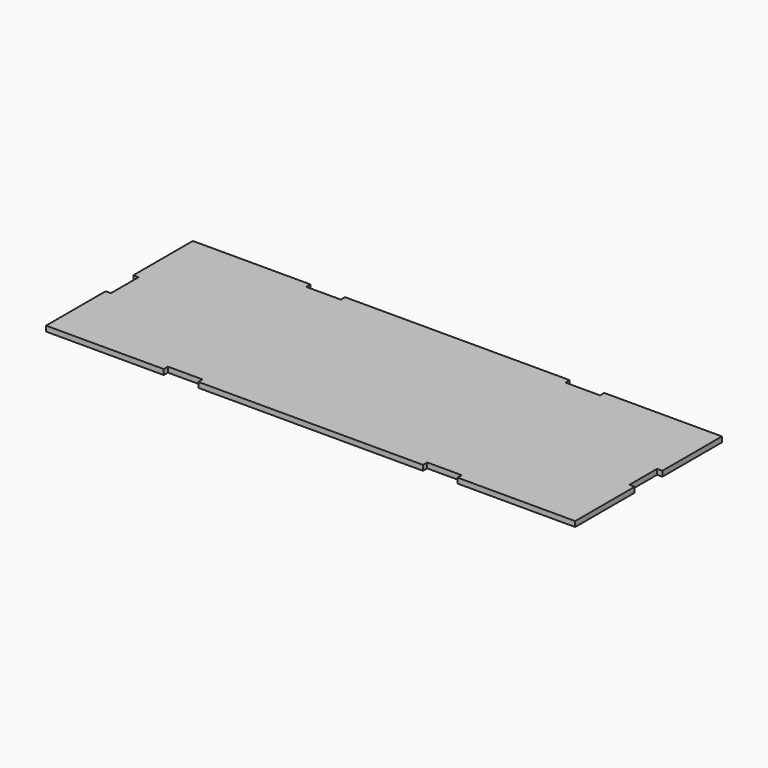
from build123d import *

# Parameters (mm, degrees)
F0_W     = 66.04
F0_H     = 3.1
F0_W_2   = 132.08
F1_DEPTH = 3.1


with BuildPart() as f1:
    # F0 (on Top) → F1 (new body)
    with BuildSketch(Plane.XY):
        Polygon((0, 40.64), (0, 0), (66.04, 0), (86.36, 0), (218.44, 0), (238.76, 0), (304.8, 0), (304.8, 40.64), (304.8, 60.96), (304.8, 101.6), (238.76, 101.6), (218.44, 101.6), (86.36, 101.6), (66.04, 101.6), (0, 101.6), (0, 60.96), align=None)
        Polygon((-3.1, 60.96), (0, 60.96), (0, 101.6), (0, 104.7), (-3.1, 104.7), align=None)
        with Locations((33.02, 103.15)):
            Rectangle(F0_W, F0_H)
        Polygon((0, -3.1), (0, 0), (0, 40.64), (-3.1, 40.64), (-3.1, -3.1), align=None)
        with Locations((33.02, -1.55)):
            Rectangle(F0_W, F0_H)
        with Locations((152.4, -1.55)):
            Rectangle(F0_W_2, F0_H)
        with Locations((152.4, 103.15)):
            Rectangle(F0_W_2, F0_H)
        with Locations((271.78, -1.55)):
            Rectangle(F0_W, F0_H)
        Polygon((304.8, 40.64), (304.8, 0), (304.8, -3.1), (307.9, -3.1), (307.9, 40.64), align=None)
        Polygon((304.8, 101.6), (304.8, 60.96), (307.9, 60.96), (307.9, 104.7), (304.8, 104.7), align=None)
        with Locations((271.78, 103.15)):
            Rectangle(F0_W, F0_H)
    extrude(amount=F1_DEPTH)


solid = f1.part
